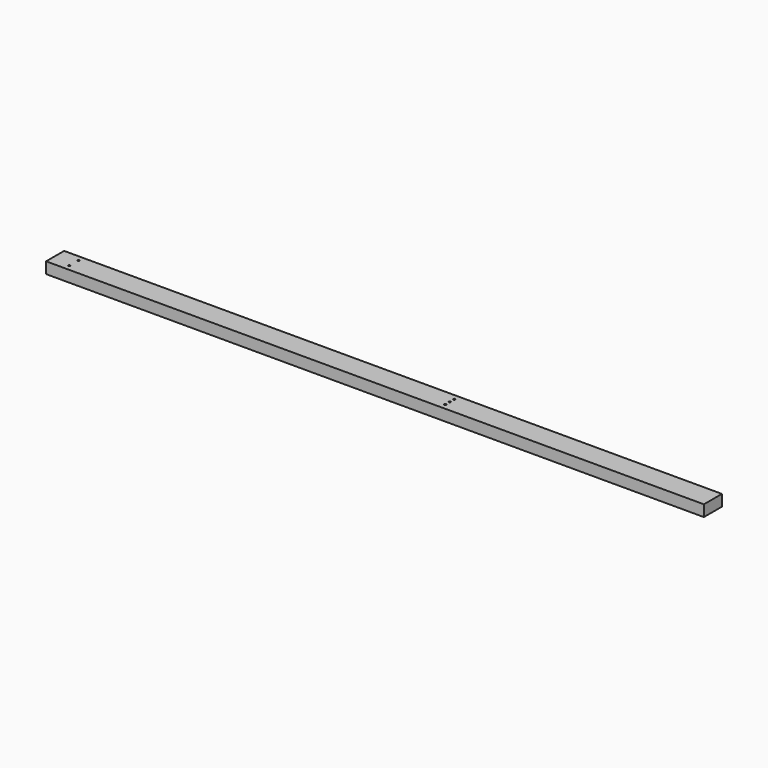
from build123d import *

# Parameters (mm, degrees)
F1_DEPTH = 24


with BuildPart() as f1:
    # F0 (on Top) → F1 (new body)
    with BuildSketch(Plane.XY):
        Polygon((-700, -24), (700, -24), (700, 24), (-700, 24), (-700, 0), align=None)
        with BuildLine():
            ThreePointArc((-658, -12), (-661.414214, -13.414214), (-660, -10))
            ThreePointArc((-660, -10), (-658.585786, -10.585786), (-658, -12))
        make_face(mode=Mode.SUBTRACT)
        with BuildLine():
            ThreePointArc((142, -12), (138.585786, -13.414214), (140, -10))
            ThreePointArc((140, -10), (141.414214, -10.585786), (142, -12))
        make_face(mode=Mode.SUBTRACT)
        with BuildLine():
            ThreePointArc((-658, 12), (-658.585786, 10.585786), (-660, 10))
            ThreePointArc((-660, 10), (-661.414214, 13.414214), (-658, 12))
        make_face(mode=Mode.SUBTRACT)
        with BuildLine():
            ThreePointArc((140, -2), (138.585786, -1.414214), (138, 0))
            ThreePointArc((138, 0), (138.585786, 1.414214), (140, 2))
            ThreePointArc((140, 2), (141.414214, 1.414214), (142, 0))
            ThreePointArc((142, 0), (141.414214, -1.414214), (140, -2))
        make_face(mode=Mode.SUBTRACT)
        with BuildLine():
            ThreePointArc((142, 12), (141.414214, 10.585786), (140, 10))
            ThreePointArc((140, 10), (138.585786, 13.414214), (142, 12))
        make_face(mode=Mode.SUBTRACT)
    extrude(amount=F1_DEPTH)


solid = f1.part
